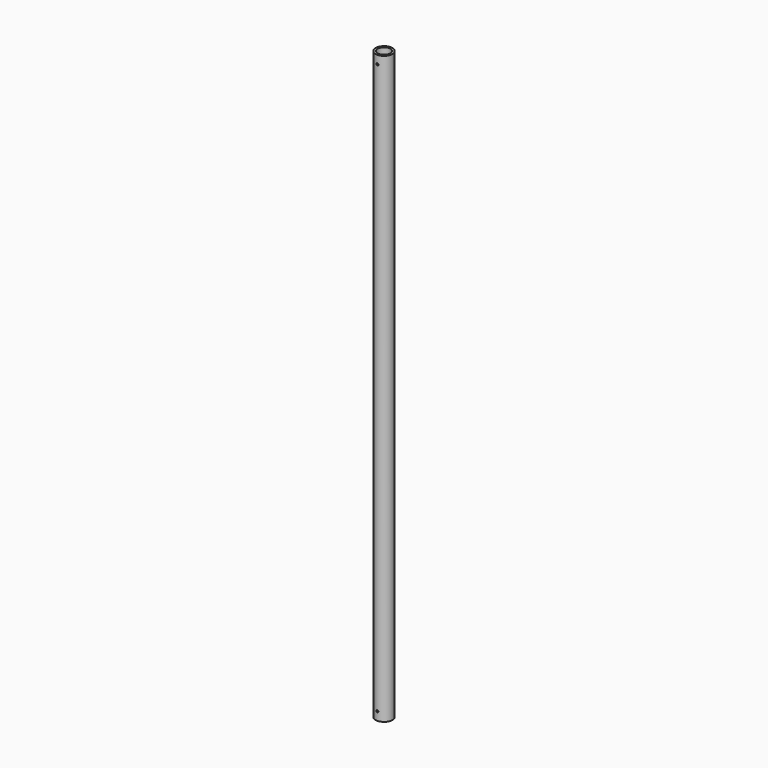
from build123d import *

# Parameters (mm, degrees)
F0_R          = 25.4
F0_R_2        = 19.05
F1_DEPTH      = 1778
F2_R          = 3.175
F3_DEPTH      = 25.401
F3_DEPTH_BACK = 25.401


with BuildPart() as f1:
    # F0 (on Top) → F1 (new body)
    with BuildSketch(Plane.XY):
        Circle(F0_R)
        Circle(F0_R_2, mode=Mode.SUBTRACT)
    extrude(amount=F1_DEPTH)

    # F2 (on Front) → F3 (cut, two sides)
    with BuildSketch(Plane.XZ) as f3_sk:
        with Locations((0, 25.4)):
            Circle(F2_R)
        with Locations((0, 1752.6)):
            Circle(F2_R)
    extrude(amount=-F3_DEPTH, mode=Mode.SUBTRACT)
    extrude(f3_sk.sketch, amount=F3_DEPTH_BACK, mode=Mode.SUBTRACT)


solid = f1.part
